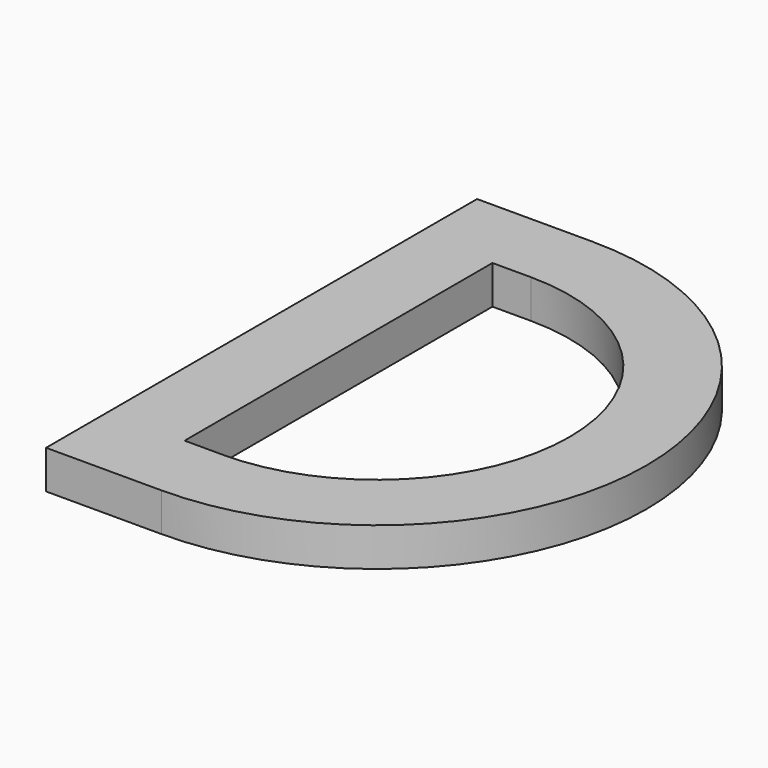
from build123d import *

# Parameters (mm, degrees)
F1_DEPTH = 5


with BuildPart() as f1:
    # F0 (on Top) → F1 (new body)
    with BuildSketch(Plane.XY):
        with BuildLine():
            Line((0, 70), (0, 0))
            Line((0, 0), (15, 0))
            ThreePointArc((15, 0), (50, 35), (15, 70))
            Line((15, 70), (0, 70))
        make_face()
        with BuildLine():
            Line((10, 60), (15, 60))
            ThreePointArc((15, 60), (40, 35), (15, 10))
            Line((15, 10), (10, 10))
            Line((10, 10), (10, 60))
        make_face(mode=Mode.SUBTRACT)
    extrude(amount=F1_DEPTH)


solid = f1.part
